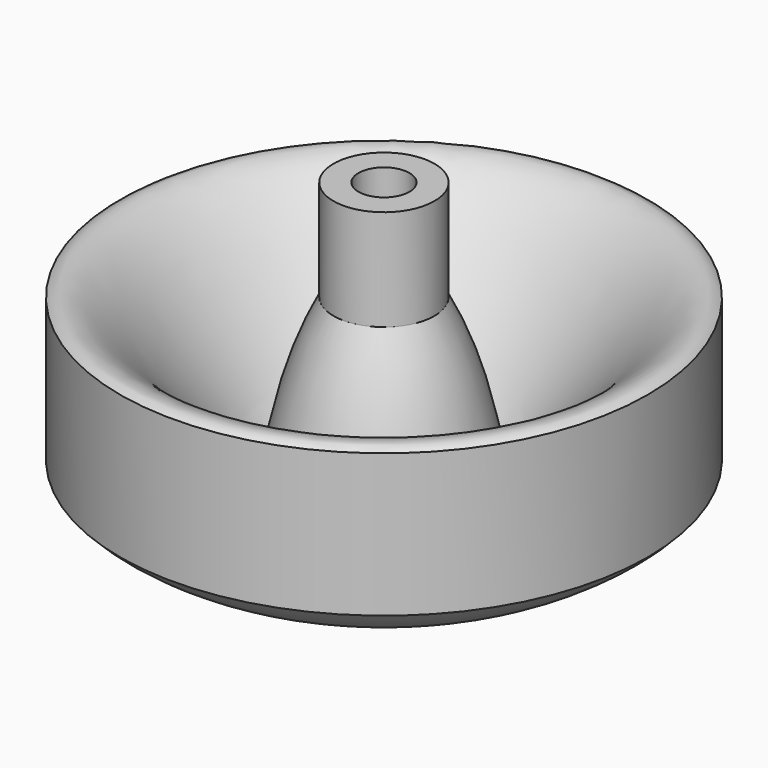
from build123d import *

# Parameters (mm, degrees)
F2_R     = 2.5590732694
F3_DEPTH = 10.16
F4_R     = 1.5875
F5_DEPTH = 12.7


with BuildPart() as f1:
    # F0 (on Front) → F1 (revolve)
    with BuildSketch(Plane.XZ):
        with BuildLine():
            Line((0, 36.3681837916), (0, 0))
            Line((0, 0), (1.651, 0))
            add(Edge.make_bspline(
                [(1.651, 0), (4.9784278335, 7.8432246905), (9.8797152031, 2.2916243739), (23.4813746273, 8.4736508016), (26.5273787081, 11.8374861777)],
                knots=[0, 0, 0, 0, 0.4442566338, 1, 1, 1, 1], degree=3))
            Line((26.5273787081, 11.8374861777), (26.5273787081, 26.2081837916))
            add(Edge.make_bspline(
                [(5.08, 26.2081837916), (10.0801282924, 16.6757298148), (6.5290390026, 2.9534107183), (23.0302548553, 29.295393126), (26.5273787081, 26.2081837916)],
                knots=[0, 0, 0, 0, 0.4594912223, 1, 1, 1, 1], degree=3))
            Line((5.08, 26.2081837916), (5.08, 36.3681837916))
            Line((5.08, 36.3681837916), (0, 36.3681837916))
        make_face()
    revolve(axis=Axis((0, 0, 18.1840918958), (0, 0, -1)))

    # F2 (on face) → F3 (cut)
    with BuildSketch(Plane.XY.offset(36.3681837916)):
        Circle(F2_R)
    extrude(amount=-F3_DEPTH, mode=Mode.SUBTRACT)

    # F4 (on Top) → F5 (cut)
    with BuildSketch(Plane.XY):
        Circle(F4_R)
    extrude(amount=F5_DEPTH, mode=Mode.SUBTRACT)


solid = f1.part
